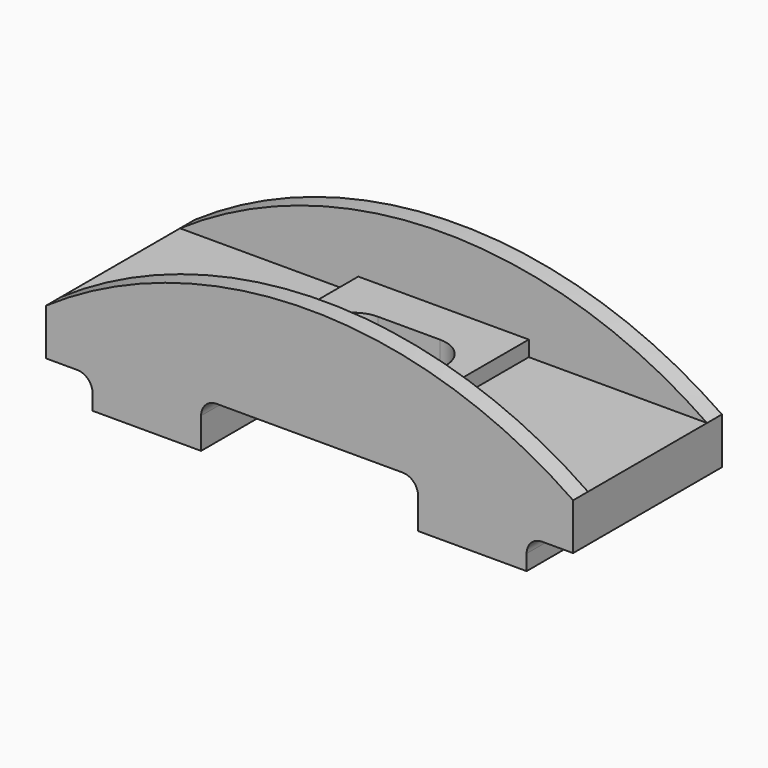
from build123d import *

# Parameters (mm, degrees)
F1_DEPTH = 60
F2_W     = 48
F2_H     = 28.6153249443
F3_DEPTH = 170.001
F4_W     = 55
F4_H     = 48
F5_DEPTH = 5
F7_DEPTH = 30.001


with BuildPart() as f1:
    # F0 (on Front) → F1 (new body)
    with BuildSketch(Plane.XZ):
        with BuildLine():
            Line((-70, -7.5), (-70, -12.5))
            Line((-70, -12.5), (-35, -12.5))
            Line((-35, -12.5), (-35, -2.5))
            ThreePointArc((-35, -2.5), (-33.5355339059, 1.0355339059), (-30, 2.5))
            Line((-30, 2.5), (30, 2.5))
            ThreePointArc((30, 2.5), (33.5355339059, 1.0355339059), (35, -2.5))
            Line((35, -2.5), (35, -12.5))
            Line((35, -12.5), (70, -12.5))
            Line((70, -12.5), (70, -7.5))
            ThreePointArc((70, -7.5), (71.4644660941, -3.9644660941), (75, -2.5))
            Line((75, -2.5), (85, -2.5))
            Line((85, -2.5), (85, 12.5))
            Line((85, 12.5), (-85, 12.5))
            Line((-85, 12.5), (-85, -2.5))
            Line((-85, -2.5), (-75, -2.5))
            ThreePointArc((-75, -2.5), (-71.4644660941, -3.9644660941), (-70, -7.5))
        make_face()
        with BuildLine():
            ThreePointArc((85, 12.5), (0, 38.9079290569), (-85, 12.5))
            Line((-85, 12.5), (85, 12.5))
        make_face()
    extrude(amount=F1_DEPTH)

    # F2 (on face) → F3 (cut, through all)
    with BuildSketch(Plane.YZ.offset(85)):
        with Locations((-30, 26.8076624721)):
            Rectangle(F2_W, F2_H)
    extrude(amount=-F3_DEPTH, mode=Mode.SUBTRACT)

    # F4 (on face) → F5 (join)
    with BuildSketch(Plane.XY.offset(12.5)):
        with Locations((0, -30)):
            Rectangle(F4_W, F4_H)
    extrude(amount=F5_DEPTH)

    # F6 (on face) → F7 (cut, through all)
    with BuildSketch(Plane.XY.offset(17.5)):
        with BuildLine():
            ThreePointArc((0, -30), (-2.9289321881, -37.0710678119), (-10, -40))
            Line((-10, -40), (10, -40))
            ThreePointArc((10, -40), (2.9289321881, -37.0710678119), (0, -30))
        make_face()
        with BuildLine():
            ThreePointArc((-10, -20), (-20, -30), (-10, -40))
            Line((-10, -40), (-10, -20))
        make_face()
        with BuildLine():
            Line((-10, -20), (-10, -40))
            ThreePointArc((-10, -40), (-2.9289321881, -37.0710678119), (0, -30))
            ThreePointArc((0, -30), (-2.9289321881, -22.9289321881), (-10, -20))
        make_face()
        with BuildLine():
            ThreePointArc((0, -30), (2.9289321881, -37.0710678119), (10, -40))
            Line((10, -40), (10, -20))
            ThreePointArc((10, -20), (2.9289321881, -22.9289321881), (0, -30))
        make_face()
        with BuildLine():
            Line((10, -20), (10, -40))
            ThreePointArc((10, -40), (17.0710678119, -37.0710678119), (20, -30))
            ThreePointArc((20, -30), (17.0710678119, -22.9289321881), (10, -20))
        make_face()
        with BuildLine():
            Line((10, -20), (-10, -20))
            ThreePointArc((-10, -20), (-2.9289321881, -22.9289321881), (0, -30))
            ThreePointArc((0, -30), (2.9289321881, -22.9289321881), (10, -20))
        make_face()
    extrude(amount=-F7_DEPTH, mode=Mode.SUBTRACT)


solid = f1.part
